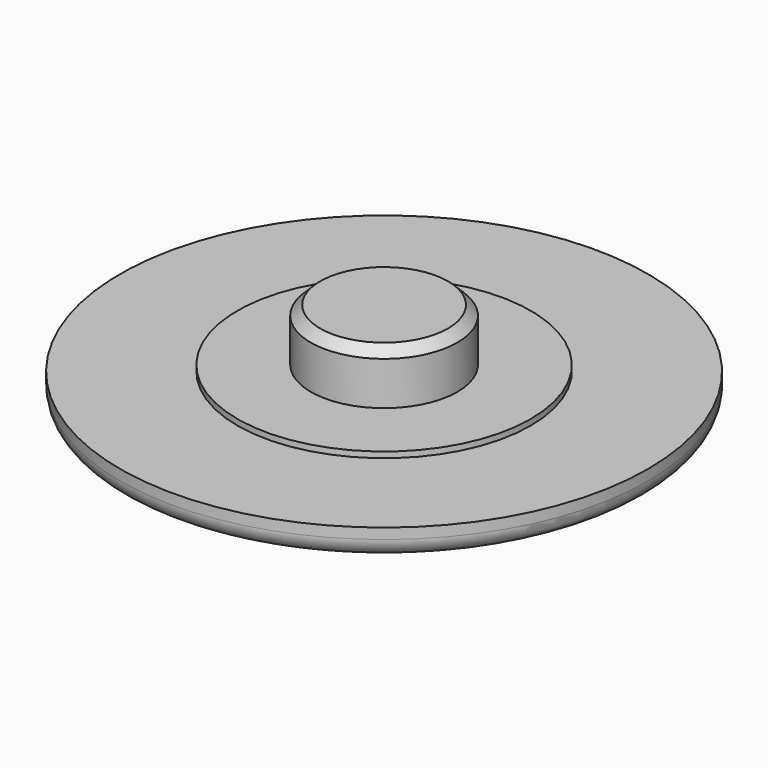
from build123d import *

# Parameters (mm, degrees)
F0_R     = 14.2875
F0_R_2   = 7.9375
F0_R_3   = 3.96875
F1_DEPTH = 1.5875
F2_DEPTH = 3.175
F3_R     = 1.016
F4_DEPTH = 0.3175
F5_SIZE  = 0.508


with BuildPart() as f1:
    # F0 (on Top) → F1 (new body)
    with BuildSketch(Plane.XY):
        Circle(F0_R)
        Circle(F0_R_2, mode=Mode.SUBTRACT)
        Circle(F0_R_2)
        Circle(F0_R_3, mode=Mode.SUBTRACT)
        Circle(F0_R_3)
    extrude(amount=-F1_DEPTH)

    # F0 (on Top) → F2 (join)
    with BuildSketch(Plane.XY):
        Circle(F0_R_3)
    extrude(amount=F2_DEPTH)

    # F3
    f3_edges = [f1.edges().sort_by_distance(p)[0] for p in [
        (-14.2875, 0, -1.5875),
    ]]
    fillet(f3_edges, radius=F3_R)

    # F0 (on Top) → F4 (join)
    with BuildSketch(Plane.XY):
        Circle(F0_R_2)
        Circle(F0_R_3, mode=Mode.SUBTRACT)
    extrude(amount=F4_DEPTH)

    # F5
    f5_edges = [f1.edges().sort_by_distance(p)[0] for p in [
        (-3.96875, 0, 3.175),
    ]]
    chamfer(f5_edges, length=F5_SIZE)


solid = f1.part
